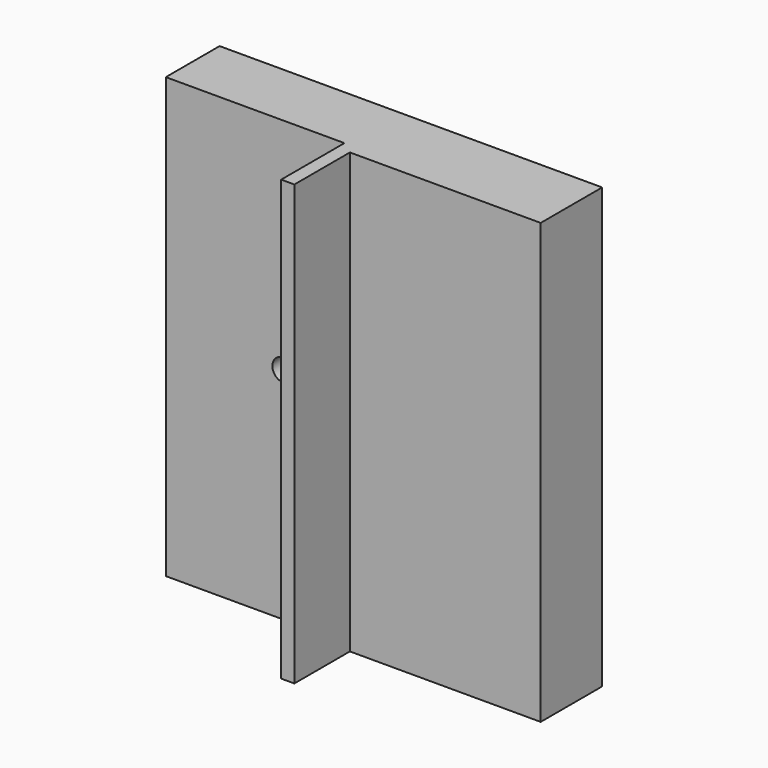
from build123d import *

# Parameters (mm, degrees)
F1_DEPTH = 127
F2_R     = 3.2258
F3_DEPTH = 19.431


with BuildPart() as f1:
    # F0 (on Top) → F1 (new body)
    with BuildSketch(Plane.XY):
        Polygon((0, 19.431), (0, 0), (51.6382, 0), (110.60591, 0), (110.60591, 19.431), align=None)
        Polygon((110.60591, 0), (51.6382, 0), (51.6382, -22.86), (55.4482, -22.86), (55.4482, -2.794), (110.60591, -2.794), align=None)
    extrude(amount=F1_DEPTH)

    # F2 (on face) → F3 (cut, through all)
    with BuildSketch(Plane(origin=(0, 19.431, 0), x_dir=(-1, 0, 0), z_dir=(0, 1, 0))):
        with Locations((-34.036, 63.5)):
            Circle(F2_R)
    extrude(amount=-F3_DEPTH, mode=Mode.SUBTRACT)


solid = f1.part
